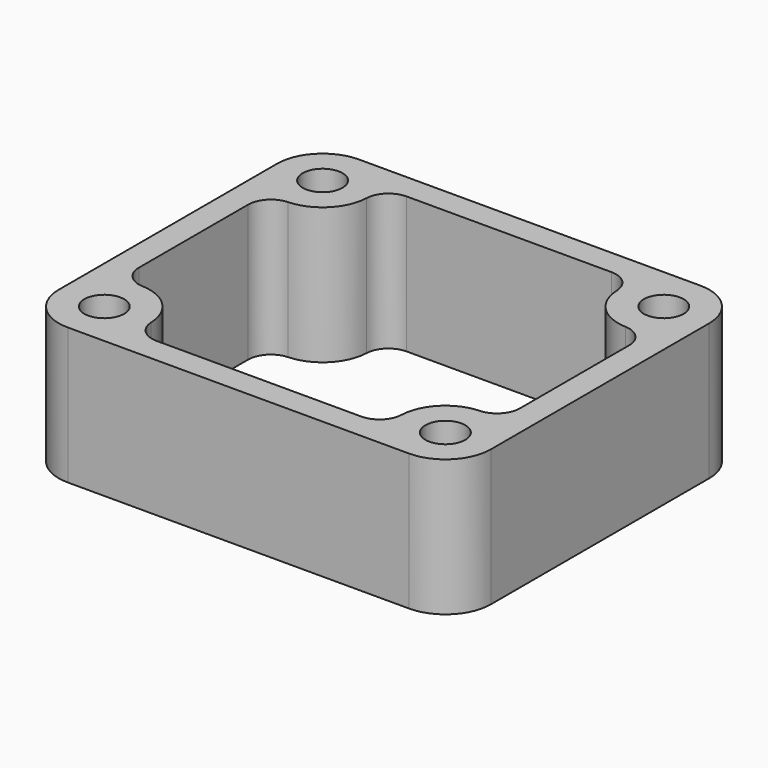
from build123d import *

# Parameters (mm, degrees)
SKETCH_R  = 1.75
PAD_DEPTH = 12
FILLET_R  = 2


with BuildPart() as part:
    # Sketch → Pad (new body)
    with BuildSketch(Plane.XY):
        with BuildLine():
            Line((-15, 16), (15, 16))
            ThreePointArc((19, 12), (17.828427, 14.828427), (15, 16))
            Line((19, 12), (19, -12))
            ThreePointArc((15, -16), (17.828427, -14.828427), (19, -12))
            Line((15, -16), (-15, -16))
            ThreePointArc((-19, -12), (-17.828427, -14.828427), (-15, -16))
            Line((-19, -12), (-19, 12))
            ThreePointArc((-15, 16), (-17.828427, 14.828427), (-19, 12))
        make_face()
        with Locations((-15, 12)):
            Circle(SKETCH_R, mode=Mode.SUBTRACT)
        with Locations((15, 12)):
            Circle(SKETCH_R, mode=Mode.SUBTRACT)
        with Locations((15, -12)):
            Circle(SKETCH_R, mode=Mode.SUBTRACT)
        with Locations((-15, -12)):
            Circle(SKETCH_R, mode=Mode.SUBTRACT)
        with BuildLine():
            Line((-16.75, 8), (-15, 8))
            ThreePointArc((-15, 8), (-12.171573, 9.171573), (-11, 12))
            Line((-11, 12), (-11, 13.75))
            Line((-11, 13.75), (11, 13.75))
            Line((11, 13.75), (11, 12))
            ThreePointArc((11, 12), (12.171573, 9.171573), (15, 8))
            Line((15, 8), (16.75, 8))
            Line((16.75, 8), (16.75, -8))
            Line((15, -8), (16.75, -8))
            ThreePointArc((15, -8), (12.171573, -9.171573), (11, -12))
            Line((11, -13.75), (11, -12))
            Line((11, -13.75), (-11, -13.75))
            Line((-11, -12), (-11, -13.75))
            ThreePointArc((-11, -12), (-12.171573, -9.171573), (-15, -8))
            Line((-16.75, -8), (-15, -8))
            Line((-16.75, -8), (-16.75, 8))
        make_face(mode=Mode.SUBTRACT)
    extrude(amount=PAD_DEPTH)

    # Fillet
    fillet_edges = [part.edges().sort_by_distance(p)[0] for p in [
        (-11, 13.75, 6),
        (-16.75, 8, 6),
        (11, 13.75, 6),
        (16.75, 8, 6),
        (16.75, -8, 6),
        (11, -13.75, 6),
        (-11, -13.75, 6),
        (-16.75, -8, 6),
    ]]
    fillet(fillet_edges, radius=FILLET_R)


solid = part.part
